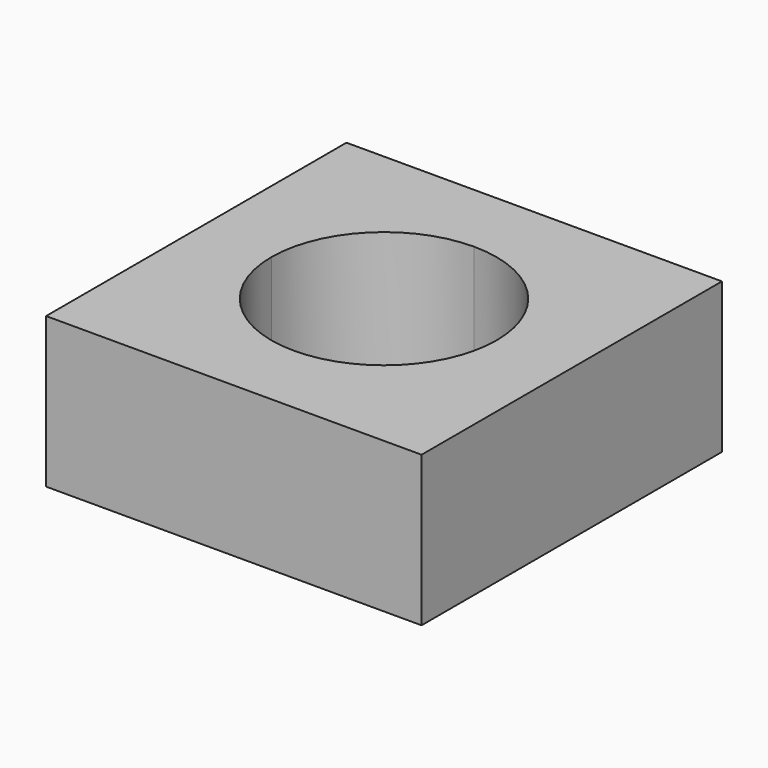
from build123d import *

# Parameters (mm, degrees)
F1_DEPTH = 25.4


with BuildPart() as f1:
    # F0 (on Top) → F1 (new body)
    with BuildSketch(Plane.XY):
        with BuildLine():
            Line((-24.700599, 2.094385), (-24.700599, -29.655615))
            Line((-24.700599, -29.655615), (7.049401, -29.655615))
            Line((7.049401, -29.655615), (7.049401, -16.955615))
            ThreePointArc((7.049401, -16.955615), (-6.420984, -11.375999), (-12.000599, 2.094385))
            Line((-12.000599, 2.094385), (-24.700599, 2.094385))
        make_face()
        with BuildLine():
            Line((7.049401, -16.955615), (7.049401, -29.655615))
            Line((7.049401, -29.655615), (38.799401, -29.655615))
            Line((38.799401, -29.655615), (38.799401, 2.094385))
            Line((38.799401, 2.094385), (26.099401, 2.094385))
            ThreePointArc((26.099401, 2.094385), (20.519785, -11.375999), (7.049401, -16.955615))
        make_face()
        with BuildLine():
            Line((-24.700599, 33.844385), (-24.700599, 2.094385))
            Line((-24.700599, 2.094385), (-12.000599, 2.094385))
            ThreePointArc((-12.000599, 2.094385), (-6.420984, 15.564769), (7.049401, 21.144385))
            Line((7.049401, 21.144385), (7.049401, 33.844385))
            Line((7.049401, 33.844385), (-24.700599, 33.844385))
        make_face()
        with BuildLine():
            Line((26.099401, 2.094385), (38.799401, 2.094385))
            Line((38.799401, 2.094385), (38.799401, 33.844385))
            Line((38.799401, 33.844385), (7.049401, 33.844385))
            Line((7.049401, 33.844385), (7.049401, 21.144385))
            ThreePointArc((7.049401, 21.144385), (20.519785, 15.564769), (26.099401, 2.094385))
        make_face()
    extrude(amount=F1_DEPTH)


solid = f1.part
